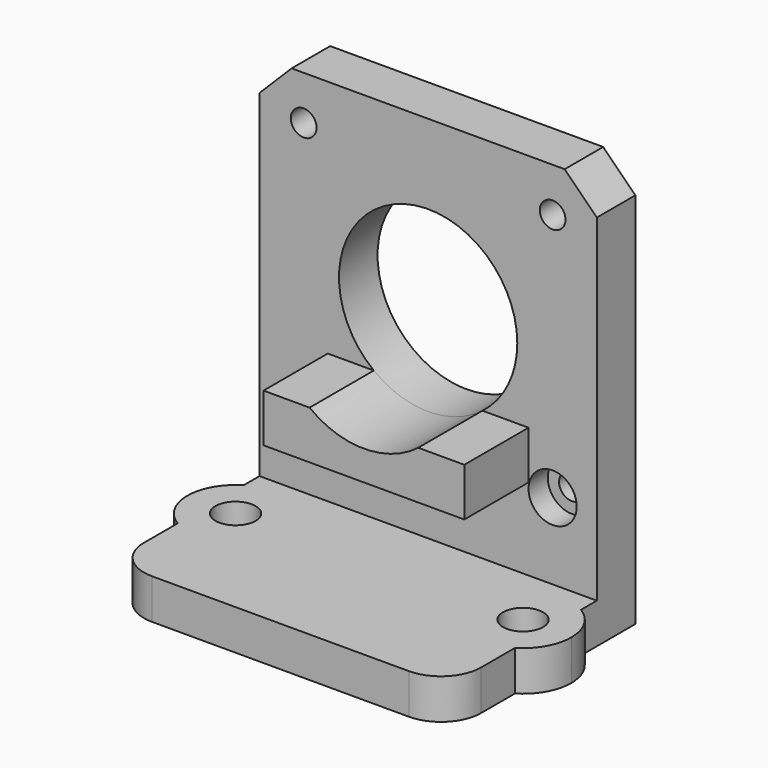
from build123d import *

# Parameters (mm, degrees)
F0_W      = 42
F0_H      = 51
F0_R      = 11.1
F1_DEPTH  = 6
F2_SIZE   = 4
F3_W      = 42
F3_H      = 5
F4_DEPTH  = 23
F6_DEPTH  = 10
F7_R      = 1.6
F8_DEPTH  = 25
F9_R      = 2.5
F10_DEPTH = 6
F11_R     = 3
F12_DEPTH = 3
F14_DEPTH = 5
F15_R     = 5


with BuildPart() as f1:
    # F0 (on Front) → F1 (new body)
    with BuildSketch(Plane.XZ):
        with Locations((21, 25.5)):
            Rectangle(F0_W, F0_H)
        with Locations((21, 30)):
            Circle(F0_R, mode=Mode.SUBTRACT)
    extrude(amount=F1_DEPTH)

    # F2
    f2_edges = [f1.edges().sort_by_distance(p)[0] for p in [
        (0, -3, 51),
        (42, -3, 51),
    ]]
    chamfer(f2_edges, length=F2_SIZE)

    # F3 (on face) → F4 (join)
    with BuildSketch(Plane.XZ.offset(6)):
        with Locations((21, 2.5)):
            Rectangle(F3_W, F3_H)
    extrude(amount=F4_DEPTH)

    # F5 (on face) → F6 (join)
    with BuildSketch(Plane.XZ.offset(6)):
        with BuildLine():
            Line((14.2346470898, 21.2), (8.5, 21.2))
            Line((8.5, 21.2), (8.5, 15.2))
            Line((8.5, 15.2), (33.5, 15.2))
            Line((33.5, 15.2), (33.5, 21.2))
            Line((33.5, 21.2), (27.7653529102, 21.2))
            ThreePointArc((27.7653529102, 21.2), (21, 18.9), (14.2346470898, 21.2))
        make_face()
    extrude(amount=F6_DEPTH)

    # F7 (on face) → F8 (cut)
    with BuildSketch(Plane(origin=(0, 0, 0), x_dir=(-1, 0, 0), z_dir=(0, 1, 0))):
        with Locations((-36.5, 45.5)):
            Circle(F7_R)
        with Locations((-5.5, 45.5)):
            Circle(F7_R)
        with Locations((-5.5, 14.5)):
            Circle(F7_R)
        with Locations((-36.5, 14.5)):
            Circle(F7_R)
    extrude(amount=-F8_DEPTH, mode=Mode.SUBTRACT)

    # F9 (on Top) → F10 (cut)
    with BuildSketch(Plane.XY):
        with Locations((3.1, -13.6)):
            Circle(F9_R)
        with Locations((38.9, -13.6)):
            Circle(F9_R)
    extrude(amount=F10_DEPTH, mode=Mode.SUBTRACT)

    # F11 (on face) → F12 (cut)
    with BuildSketch(Plane.XZ.offset(6)):
        with Locations((5.5, 14.5)):
            Circle(F11_R)
        with Locations((36.5, 14.5)):
            Circle(F11_R)
    extrude(amount=-F12_DEPTH, mode=Mode.SUBTRACT)

    # F13 (on face) → F14 (join)
    with BuildSketch(Plane.XY.offset(5)):
        with BuildLine():
            Line((0, -18.7371198156), (0, -8.4628801844))
            ThreePointArc((0, -8.4628801844), (-2.9, -13.6), (0, -18.7371198156))
        make_face()
        with BuildLine():
            ThreePointArc((44.9, -13.6), (44.124940191, -10.6504237592), (42, -8.4628801844))
            Line((42, -8.4628801844), (42, -18.7371198156))
            ThreePointArc((42, -18.7371198156), (44.124940191, -16.5495762408), (44.9, -13.6))
        make_face()
    extrude(amount=-F14_DEPTH)

    # F15
    f15_edges = [f1.edges().sort_by_distance(p)[0] for p in [
        (0, -29, 2.5),
        (42, -29, 2.5),
    ]]
    fillet(f15_edges, radius=F15_R)


solid = f1.part
